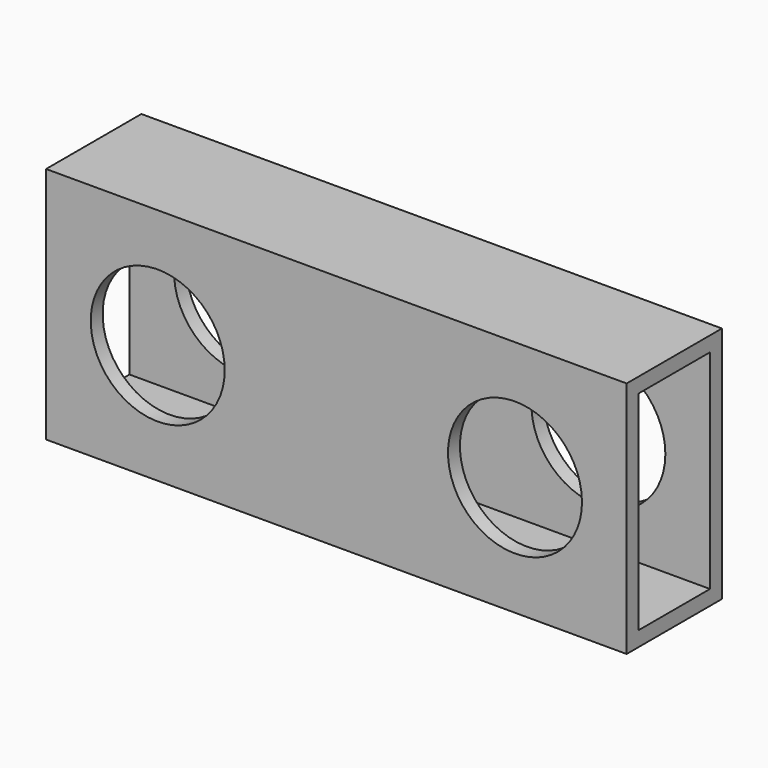
from build123d import *

# Parameters (mm, degrees)
F0_W     = 123.825
F0_H     = 50.8
F0_R     = 14.2875
F1_DEPTH = 12.7
F2_W     = 19.05
F2_H     = 44.45
F3_DEPTH = 123.826


with BuildPart() as f1:
    # F0 (on Front) → F1 (new body, symmetric)
    with BuildSketch(Plane.XZ):
        Rectangle(F0_W, F0_H)
        with Locations((-38.1, 0)):
            Circle(F0_R, mode=Mode.SUBTRACT)
        with Locations((38.1, 0)):
            Circle(F0_R, mode=Mode.SUBTRACT)
    extrude(amount=F1_DEPTH, both=True)

    # F2 (on face) → F3 (cut, through all)
    with BuildSketch(Plane.YZ.offset(61.9125)):
        Rectangle(F2_W, F2_H)
    extrude(amount=-F3_DEPTH, mode=Mode.SUBTRACT)


solid = f1.part
